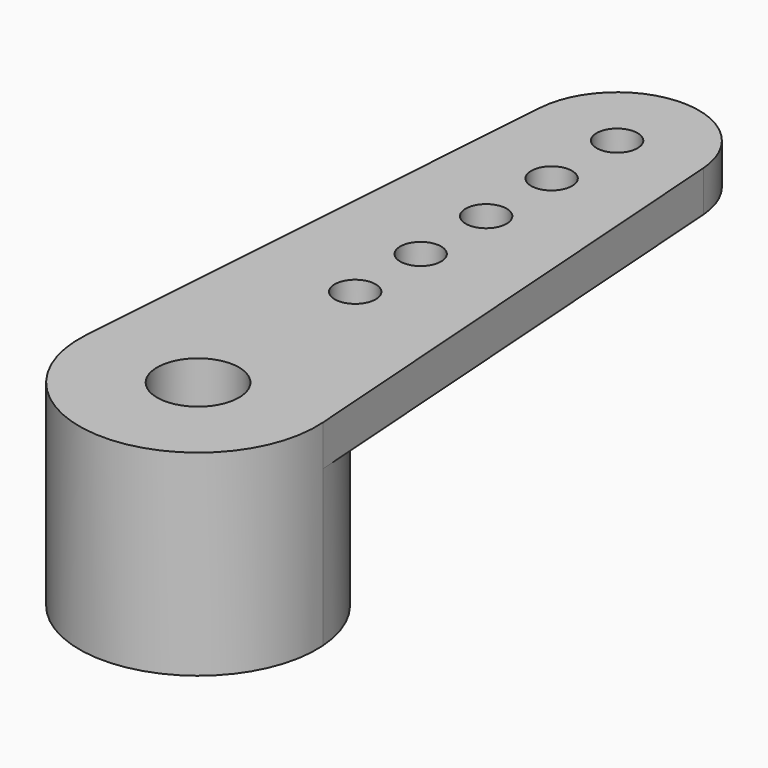
from build123d import *

# Parameters (mm, degrees)
F0_R     = 1
F0_R_2   = 0.5
F1_DEPTH = 4.8
F3_DEPTH = 3.8


with BuildPart() as f1:
    # F0 (on Top) → F1 (new body)
    with BuildSketch(Plane.XY):
        with BuildLine():
            Line((-1.99505, 12.940625), (-2.892823, 0.203906))
            ThreePointArc((-2.892823, 0.203906), (0, -2.9), (2.892823, 0.203906))
            Line((2.892823, 0.203906), (1.99505, 12.940625))
            ThreePointArc((1.99505, 12.940625), (0, 14.8), (-1.99505, 12.940625))
        make_face()
        Circle(F0_R, mode=Mode.SUBTRACT)
        with Locations((0, 4.8)):
            Circle(F0_R_2, mode=Mode.SUBTRACT)
        with Locations((0, 6.8)):
            Circle(F0_R_2, mode=Mode.SUBTRACT)
        with Locations((0, 8.8)):
            Circle(F0_R_2, mode=Mode.SUBTRACT)
        with Locations((0, 10.8)):
            Circle(F0_R_2, mode=Mode.SUBTRACT)
        with Locations((0, 12.8)):
            Circle(F0_R_2, mode=Mode.SUBTRACT)
    extrude(amount=F1_DEPTH)

    # F2 (on face) → F3 (cut)
    with BuildSketch(Plane(origin=(0, 0, 0), x_dir=(1, 0, 0), z_dir=(0, 0, -1))):
        with BuildLine():
            ThreePointArc((2.892823, -0.203906), (0, -2.9), (-2.892823, -0.203906))
            Line((-2.892823, -0.203906), (-1.99505, -12.940625))
            ThreePointArc((-1.99505, -12.940625), (0, -14.8), (1.99505, -12.940625))
            Line((1.99505, -12.940625), (2.892823, -0.203906))
        make_face()
    extrude(amount=-F3_DEPTH, mode=Mode.SUBTRACT)


solid = f1.part
